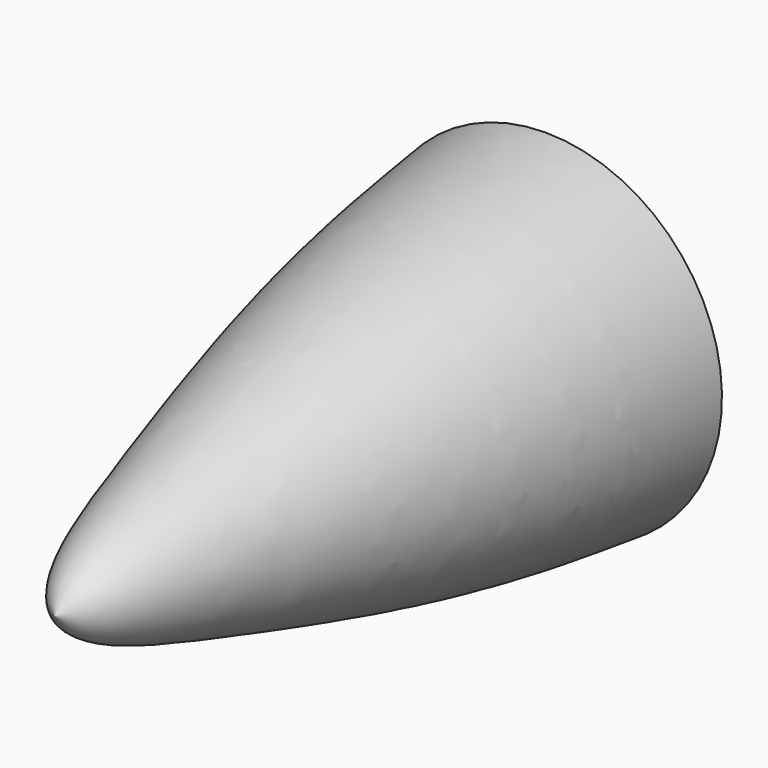
from build123d import *


with BuildPart() as f2:
    # F1 (on Right) → F2 (revolve)
    with BuildSketch(Plane.YZ):
        with BuildLine():
            Line((0, 0), (0, 21.4367993176))
            add(Edge.make_bspline(
                [(0, 21.4367993176), (-4.4576447982, 20.9190728376), (-14.0974339481, 19.7994739618), (-32.2421100156, 16.3744658146), (-53.7721762933, 10.3145746544), (-67.0662194989, 6.3730486763), (-72.6738136251, 3.1188321047), (-74.095844916, 0.9434614028), (-74.7125819325, 0)],
                knots=[0, 0, 0, 0, 0.1783683272, 0.3857268004, 0.6154930268, 0.7936070961, 0.9104871007, 1, 1, 1, 1], degree=3))
            Line((-74.7125819325, 0), (0, 0))
        make_face()
    revolve(axis=Axis((0, -37.3562909663, 0), (0, -1, 0)))


solid = f2.part
